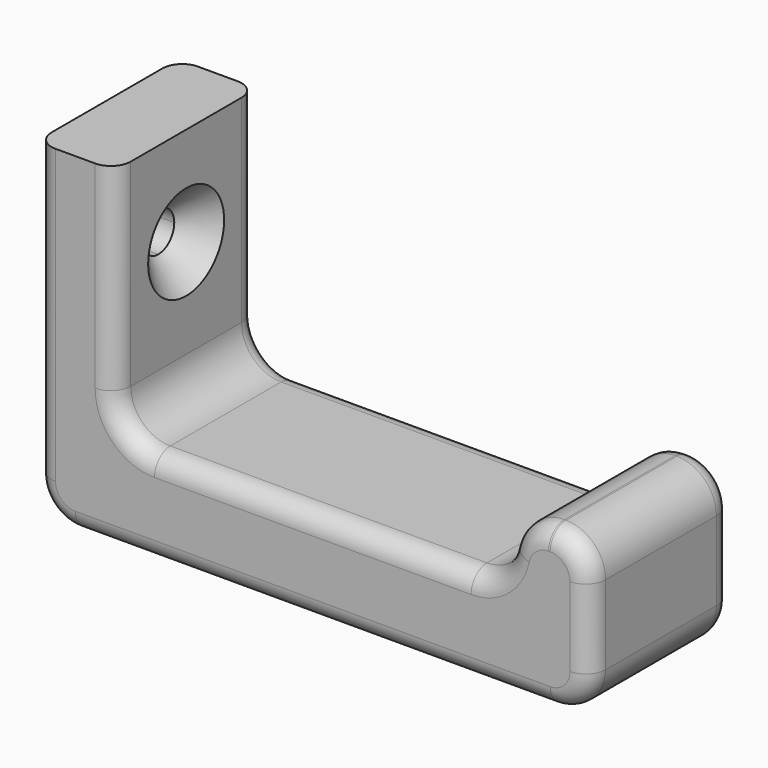
from build123d import *

# Parameters (mm, degrees)
F1_DEPTH = 22.5
F3_DEPTH = 25
F7_R     = 5
F8_R     = 5
F9_R     = 2.5


with BuildPart() as f1:
    # F0 (on Front) → F1 (new body)
    with BuildSketch(Plane.XZ):
        with BuildLine():
            Line((0, 42), (0, 5))
            ThreePointArc((0, 5), (1.4644660941, 1.4644660941), (5, 0))
            Line((5, 0), (65, 0))
            ThreePointArc((65, 0), (68.5355339059, 1.4644660941), (70, 5))
            Line((70, 5), (70, 20))
            Line((70, 20), (60, 20))
            Line((60, 20), (60, 17))
            ThreePointArc((60, 17), (58.5355339059, 13.4644660941), (55, 12))
            Line((55, 12), (15, 12))
            ThreePointArc((15, 12), (11.4644660941, 13.4644660941), (10, 17))
            Line((10, 17), (10, 42))
            Line((10, 42), (0, 42))
        make_face()
    extrude(amount=F1_DEPTH)

    # F2 (on face) → F3 (cut)
    with BuildSketch(Plane.YZ.offset(10)):
        with BuildLine():
            ThreePointArc((-8.75, 29.5), (-9.482233047, 31.267766953), (-11.25, 32))
            Line((-11.25, 32), (-11.25, 27))
            ThreePointArc((-11.25, 27), (-9.482233047, 27.732233047), (-8.75, 29.5))
        make_face()
        with BuildLine():
            Line((-11.25, 27), (-11.25, 32))
            ThreePointArc((-11.25, 32), (-13.75, 29.5), (-11.25, 27))
        make_face()
    extrude(amount=-F3_DEPTH, mode=Mode.SUBTRACT)

    # F5 (on line) → F6 (revolve, cut)
    with BuildSketch(Plane(origin=(0, -11.25, 0), x_dir=(-1, 0, 0), z_dir=(0, 1, 0))):
        Polygon((-6.5, 32), (-10, 35.5), (-10, 32), align=None)
    revolve(axis=Axis((5, -11.25, 29.5), (-1, 0, 0)), mode=Mode.SUBTRACT)

    # F7
    f7_edges = [f1.edges().sort_by_distance(p)[0] for p in [
        (60, -11.25, 20),
    ]]
    fillet(f7_edges, radius=F7_R)

    # F8
    f8_edges = [f1.edges().sort_by_distance(p)[0] for p in [
        (70, -11.25, 20),
    ]]
    fillet(f8_edges, radius=F8_R)

    # F9
    f9_edges = [f1.edges().sort_by_distance(p)[0] for p in [
        (35, 0, 12),
        (35, -22.5, 12),
    ]]
    fillet(f9_edges, radius=F9_R)


solid = f1.part
